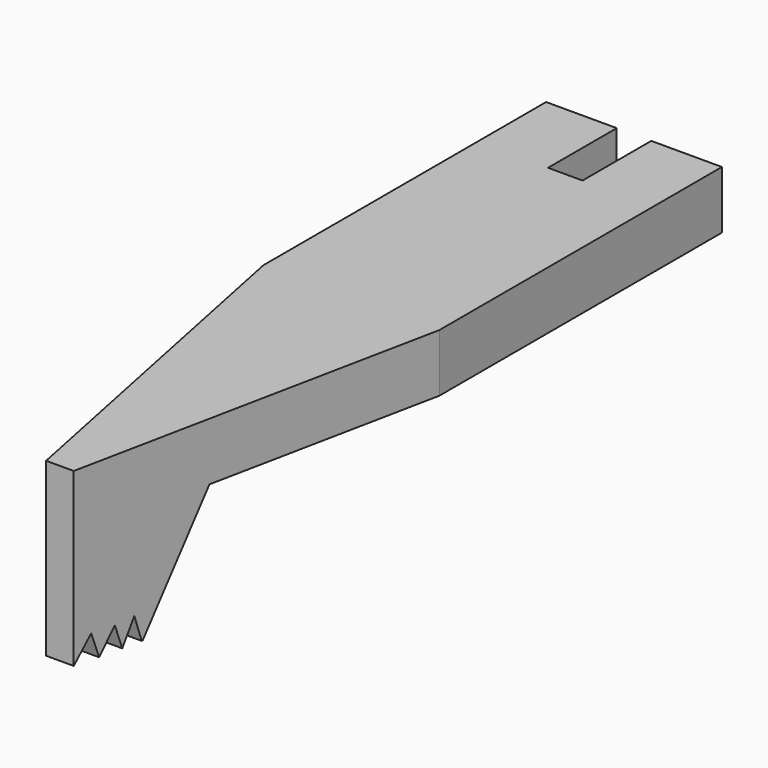
from build123d import *

# Parameters (mm, degrees)
F1_DEPTH = 10
F3_DEPTH = 12.5
F5_DEPTH = 12.5
F7_DEPTH = 74


with BuildPart() as f1:
    # F0 (on Top) → F1 (new body)
    with BuildSketch(Plane.XY):
        Polygon((0, -41.570846), (0, 0), (-5.092436, 0), (-5.092436, -20.467674), (-0.80141, -41.570846), align=None)
        Polygon((5.092436, 0), (0, 0), (0, -41.570846), (0.80141, -41.570846), (5.092436, -20.467674), align=None)
    extrude(amount=F1_DEPTH)

    # F2 (on Right) → F3 (cut, symmetric)
    with BuildSketch(Plane.YZ):
        Polygon((-37.5918, -12.62699), (0, -8.964199), (0, 6.650857), (-33.736233, 6.650857), (-37.5918, 0), align=None)
    extrude(amount=F3_DEPTH, both=True, mode=Mode.SUBTRACT)

    # F4 (on Right) → F5 (cut, symmetric)
    with BuildSketch(Plane.YZ):
        Polygon((-40.562909, 1.382743), (-41.8077, -0.256735), (-43.113209, -1.562245), (-35.917722, -1.926574), (-37.648283, 0), (-38.073331, 1.413104), (-38.771629, 0), (-39.196678, 1.322022), (-40.1075, 0), align=None)
    extrude(amount=F5_DEPTH, both=True, mode=Mode.SUBTRACT)

    # F6 (on Top) → F7 (cut)
    with BuildSketch(Plane.XY):
        Polygon((1, 4.449242), (0, 4.449242), (0, -4.97661), (1, -4.97661), (1, 0), align=None)
        Polygon((0, -4.97661), (0, 4.449242), (-1, 4.449242), (-1, 0), (-1, -4.97661), align=None)
    extrude(amount=F7_DEPTH, mode=Mode.SUBTRACT)


solid = f1.part
